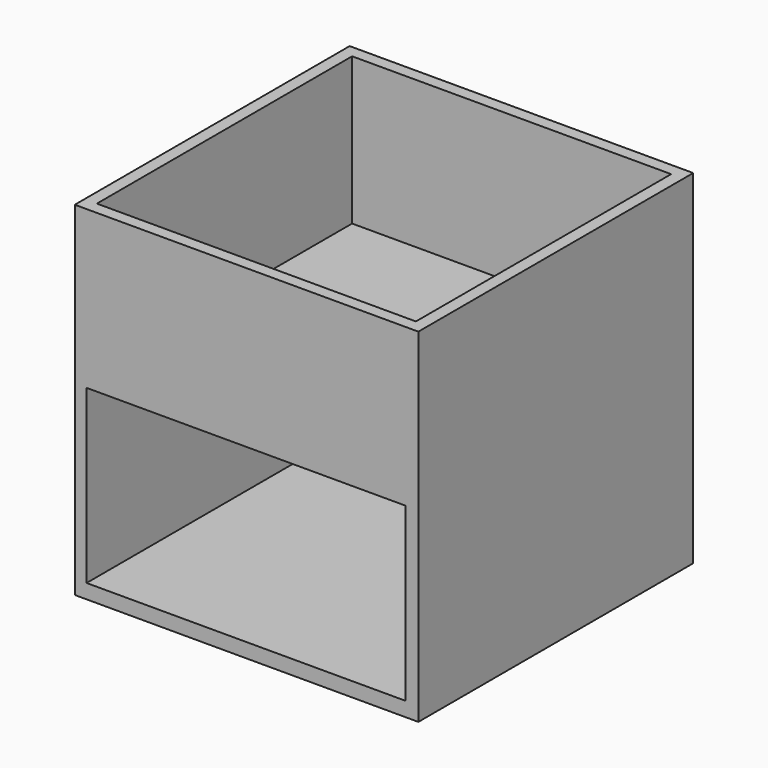
from build123d import *

# Parameters (mm, degrees)
F0_W     = 140
F0_H     = 140
F1_DEPTH = 140
F2_W     = 130
F2_H     = 130
F3_DEPTH = 60
F4_W     = 130
F4_H     = 70
F5_DEPTH = 130


with BuildPart() as f1:
    # F0 (on Top) → F1 (new body)
    with BuildSketch(Plane.XY):
        Rectangle(F0_W, F0_H)
    extrude(amount=F1_DEPTH)

    # F2 (on face) → F3 (cut)
    with BuildSketch(Plane.XY.offset(140)):
        Rectangle(F2_W, F2_H)
    extrude(amount=-F3_DEPTH, mode=Mode.SUBTRACT)

    # F4 (on face) → F5 (cut)
    with BuildSketch(Plane.XZ.offset(70)):
        with Locations((-0.203013, 40.872386)):
            Rectangle(F4_W, F4_H)
    extrude(amount=-F5_DEPTH, mode=Mode.SUBTRACT)


solid = f1.part
